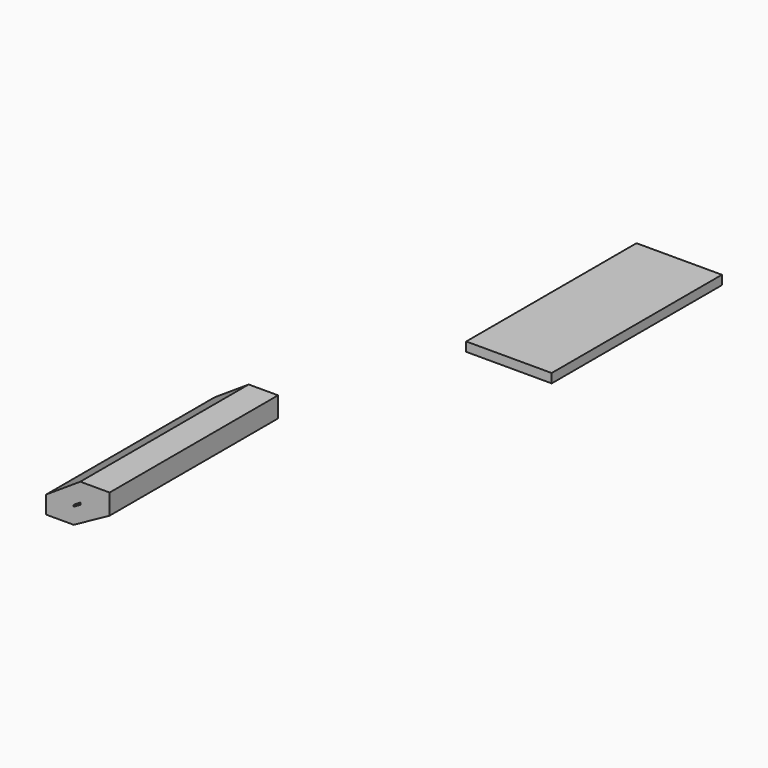
from build123d import *

# Parameters (mm, degrees)
F2_W     = 237.094552
F2_H     = 590.523541
F3_DEPTH = 25.4
F4_DEPTH = 584.2


with BuildPart() as f3:
    # F2 (on Top) → F3 (new body)
    with BuildSketch(Plane.XY):
        with Locations((352.343008, 876.110285)):
            Rectangle(F2_W, F2_H)
    extrude(amount=F3_DEPTH)


with BuildPart() as f4:
    # F0 (on Front) → F4 (new body)
    with BuildSketch(Plane.XZ):
        Polygon((76.656252, 44.196471), (0, 0), (76.656252, 0), align=None)
        Polygon((94.862118, 111.262962), (0, 48.958454), (76.656252, 48.958454), (94.862118, 60.341006), align=None)
        Polygon((176.309437, 111.262962), (94.862118, 111.262962), (94.862118, 60.341006), align=None)
        Polygon((94.862118, 54.693136), (176.309437, 54.693136), (176.309437, 111.262962), (94.862118, 60.341006), align=None)
        Polygon((76.656252, 44.196471), (76.656252, 0), (176.309437, 54.693136), (94.862118, 54.693136), align=None)
        Polygon((0, 48.958454), (0, 0), (76.656252, 44.196471), (76.656252, 48.958454), align=None)
    extrude(amount=F4_DEPTH)


solid = Compound([f3.part, f4.part])
